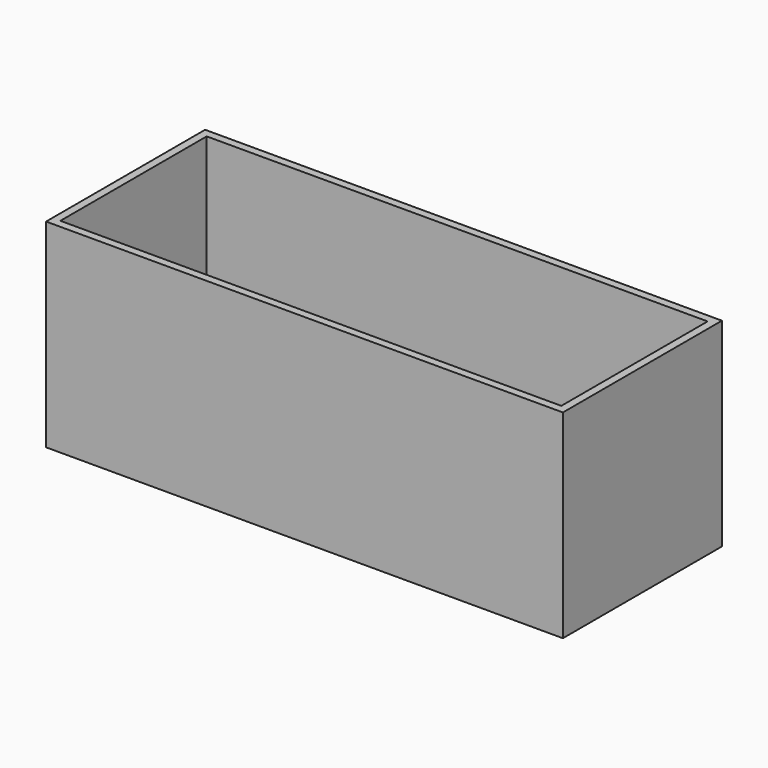
from build123d import *

# Parameters (mm, degrees)
F0_W     = 165.1
F0_H     = 63.5
F1_DEPTH = 31.75
F2_T     = -2.54


with BuildPart() as f1:
    # F0 (on Front) → F1 (new body, symmetric)
    with BuildSketch(Plane.XZ):
        Rectangle(F0_W, F0_H)
    extrude(amount=F1_DEPTH, both=True)

    # F2
    f2_openings = [f1.faces().sort_by_distance(p)[0] for p in [
        (0, 0, 31.75),
    ]]
    offset(amount=F2_T, openings=f2_openings)


solid = f1.part
